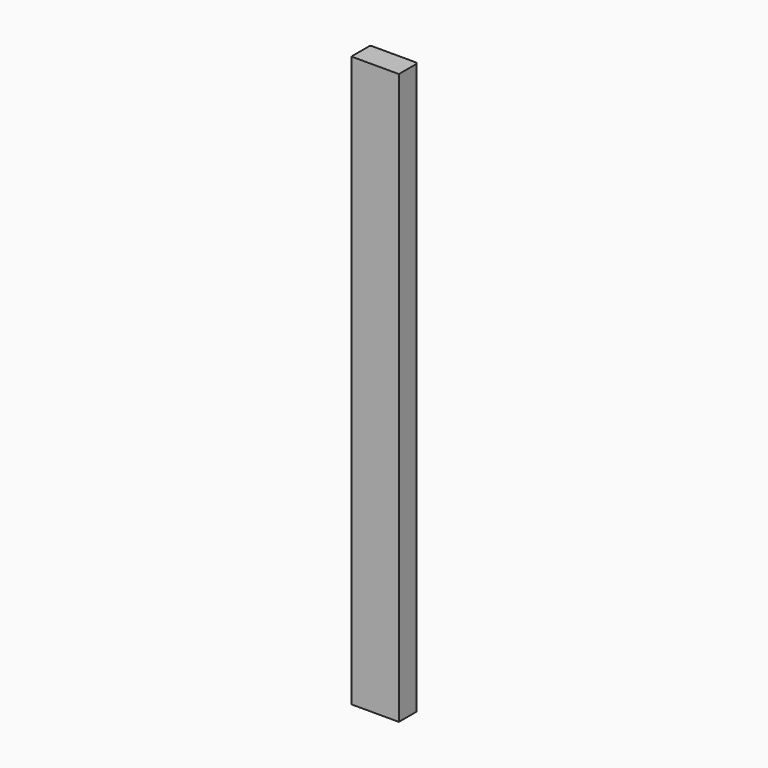
from build123d import *

# Parameters (mm, degrees)
F0_W     = 50.8
F0_H     = 25.4
F1_DEPTH = 304.8
F2_SIZE  = 1.5875


with BuildPart() as f1:
    # F0 (on Top) → F1 (new body, symmetric)
    with BuildSketch(Plane.XY):
        Rectangle(F0_W, F0_H)
    extrude(amount=F1_DEPTH, both=True)

    # F2
    f2_edges = [f1.edges().sort_by_distance(p)[0] for p in [
        (25.4, 12.7, 0),
        (-25.4, 12.7, 0),
    ]]
    chamfer(f2_edges, length=F2_SIZE)


solid = f1.part
